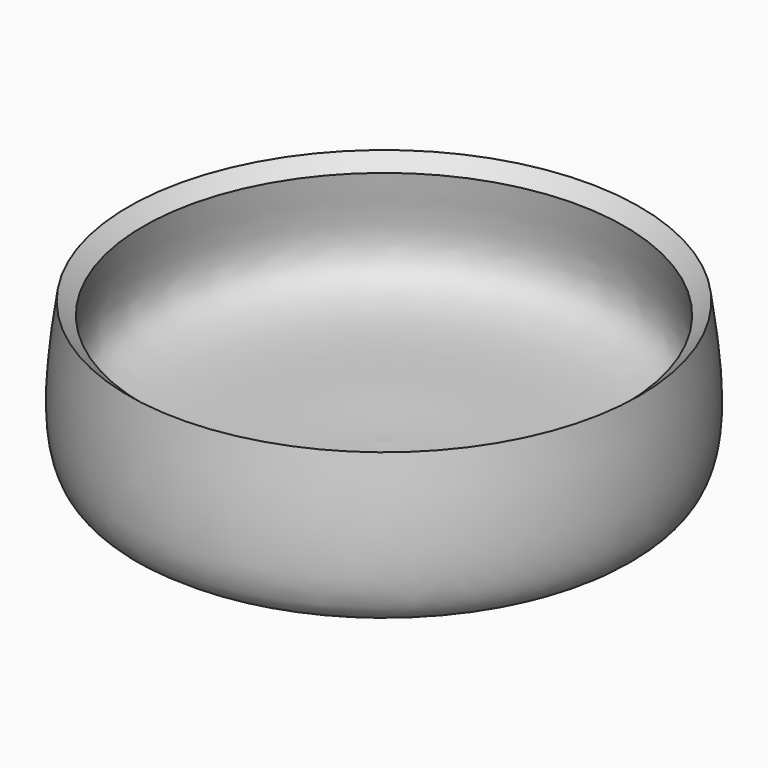
from build123d import *


with BuildPart() as f1:
    # F0 (on Front) → F1 (revolve)
    with BuildSketch(Plane.XZ):
        with BuildLine():
            Line((0, 16.0049479455), (0, 10))
            Line((0, 10), (18, 10))
            Line((18, 10), (18, 0))
            Line((18, 0), (85.1236507297, 0))
            add(Edge.make_bspline(
                [(85.1236507297, 0), (92.6579572578, 1.3280575067), (113.3325599863, 4.0680203653), (108.7386406285, 45.5533788146), (105.4550111948, 67.2735615637)],
                knots=[0, 0, 0, 0, 0.3776416861, 1, 1, 1, 1], degree=3))
            Line((105.4550111948, 67.2735615637), (99.2873162031, 62.1785111725))
            add(Edge.make_bspline(
                [(99.2873162031, 62.1785111725), (100.7817319088, 49.9144688176), (113.2762363843, 14.8145980794), (36.1078795902, 18.2147303106), (11.8877907009, 15.3273123697), (0, 16.0049479455)],
                knots=[0, 0, 0, 0, 0.298087982, 0.6863130221, 1, 1, 1, 1], degree=3))
        make_face()
    revolve(axis=Axis((0, 0, 13.0024739727), (0, 0, -1)))


solid = f1.part
